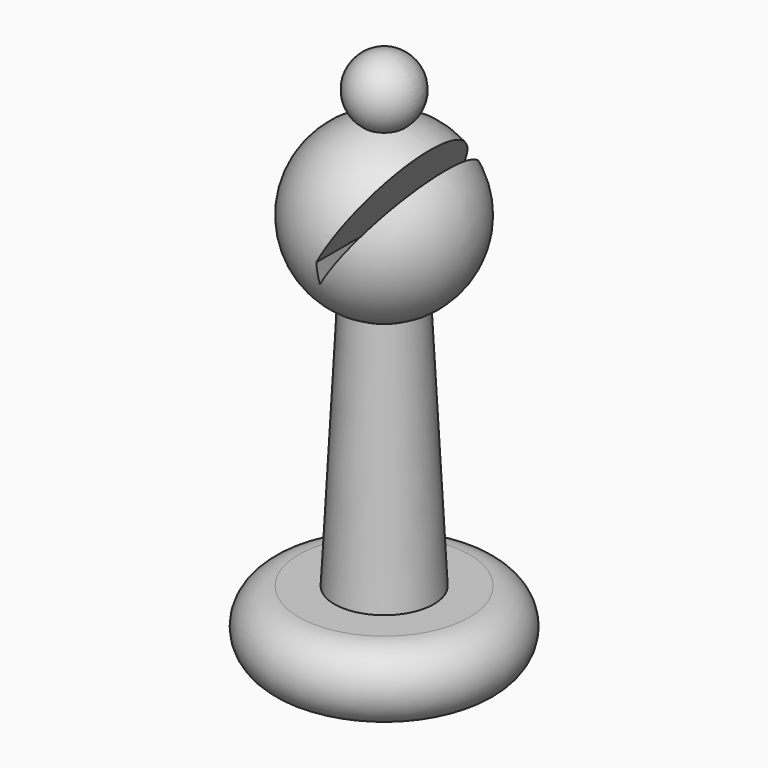
from build123d import *

# Parameters (mm, degrees)
PAD_DEPTH = 10


with BuildPart() as pad:
    # Sketch001 → Pad (new body, symmetric)
    with BuildSketch(Plane.XZ):
        Polygon((0, 26), (0, 27.5), (20, 62.141016), (20, 54.56296), align=None)
    extrude(amount=PAD_DEPTH, both=True)


with BuildPart() as cut001:
    # Sketch → Revolution (revolve)
    with BuildSketch(Plane.XZ):
        with BuildLine():
            Line((0, 0), (6, 0))
            ThreePointArc((6, 0), (8.5, 2.5), (6, 5))
            Line((6, 5), (0, 5))
            Line((0, 5), (0, 0))
        make_face()
        with BuildLine():
            Line((0, 5), (3.5, 5))
            Line((3.5, 5), (2.6, 22.592598))
            ThreePointArc((2.6, 22.592598), (5.966106, 28.63685), (1.4, 33.834381))
            ThreePointArc((1.4, 33.834381), (2.284564, 36.51911), (0, 38.18374))
            Line((0, 5), (0, 38.18374))
        make_face()
    revolve(axis=Axis((0, 0, 0), (0, 0, 1)))

    # Cut001: cut Pad
    add(pad.part, mode=Mode.SUBTRACT)


solid = cut001.part
